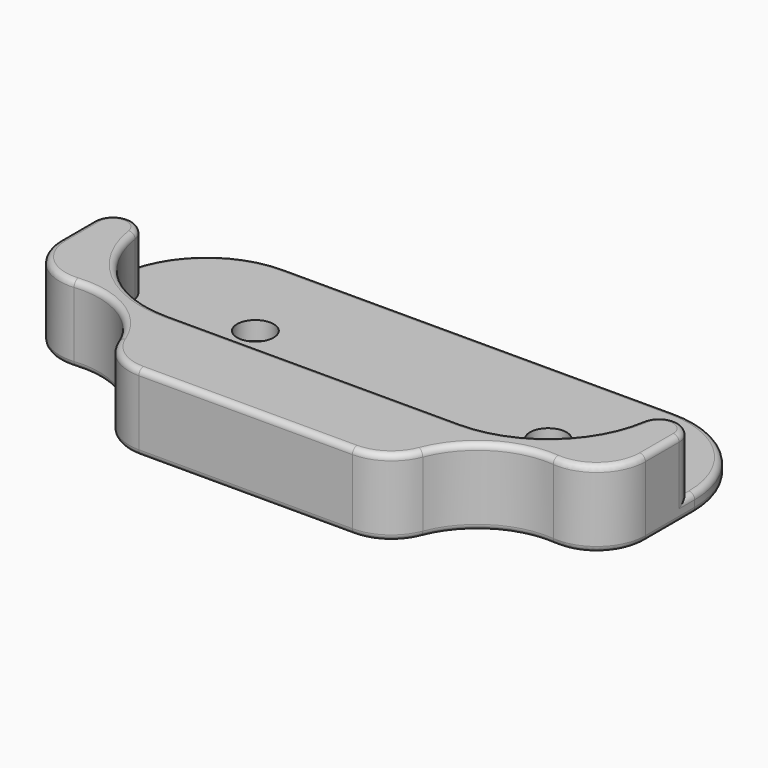
from build123d import *

# Parameters (mm, degrees)
F0_R     = 2.38125
F1_DEPTH = 2.3749
F3_DEPTH = 7.62
F4_R     = 11.1125
F5_DEPTH = 25.4
F6_R     = 6.35
F7_R     = 0.762


with BuildPart() as f1:
    # F0 (on Top) → F1 (new body)
    with BuildSketch(Plane.XY):
        with BuildLine():
            ThreePointArc((38.1, 6.35), (34.3802561211, 15.3302561211), (25.4, 19.05))
            Line((25.4, 19.05), (-25.4, 19.05))
            ThreePointArc((-25.4, 19.05), (-34.3802561211, 15.3302561211), (-38.1, 6.35))
            Line((-38.1, 6.35), (-38.1, -6.35))
            ThreePointArc((-38.1, -6.35), (-34.3802561211, -15.3302561211), (-25.4, -19.05))
            Line((-25.4, -19.05), (25.4, -19.05))
            ThreePointArc((25.4, -19.05), (34.3802561211, -15.3302561211), (38.1, -6.35))
            Line((38.1, -6.35), (38.1, 6.35))
        make_face()
        with Locations((-19.05, 6.35)):
            Circle(F0_R, mode=Mode.SUBTRACT)
        with Locations((19.05, 6.35)):
            Circle(F0_R, mode=Mode.SUBTRACT)
    extrude(amount=F1_DEPTH)

    # F2 (on face) → F3 (join)
    with BuildSketch(Plane.XY.offset(2.3749)):
        with BuildLine():
            ThreePointArc((-19.05, -7.747), (-28.2256648778, -4.3519896771), (-32.9817402005, 4.1977862595))
            ThreePointArc((-32.9817402005, 4.1977862595), (-33.8386907091, 5.7382864283), (-35.4919636601, 6.35))
            Line((-35.4919636601, 6.35), (-35.56, 6.35))
            ThreePointArc((-35.56, 6.35), (-37.3560512242, 5.6060512242), (-38.1, 3.81))
            Line((-38.1, 3.81), (-38.1, -6.35))
            ThreePointArc((-38.1, -6.35), (-34.3802561211, -15.3302561211), (-25.4, -19.05))
            Line((-25.4, -19.05), (25.4, -19.05))
            ThreePointArc((25.4, -19.05), (34.3802561211, -15.3302561211), (38.1, -6.35))
            Line((38.1, -6.35), (38.1, 3.81))
            ThreePointArc((38.1, 3.81), (37.3560512242, 5.6060512242), (35.56, 6.35))
            Line((35.56, 6.35), (35.4919636601, 6.35))
            ThreePointArc((35.4919636601, 6.35), (33.8386907091, 5.7382864283), (32.9817402005, 4.1977862595))
            ThreePointArc((32.9817402005, 4.1977862595), (28.2256648778, -4.3519896771), (19.05, -7.747))
            Line((19.05, -7.747), (-19.05, -7.747))
        make_face()
    extrude(amount=F3_DEPTH)

    # F4 (on Top) → F5 (cut)
    with BuildSketch(Plane.XY):
        with Locations((-30.1625, -19.05)):
            Circle(F4_R)
        with Locations((30.1625, -19.05)):
            Circle(F4_R)
    extrude(amount=F5_DEPTH, mode=Mode.SUBTRACT)

    # F6
    f6_edges = [f1.edges().sort_by_distance(p)[0] for p in [
        (-37.370496, -10.592314, 4.99745),
        (-19.05, -19.05, 4.99745),
        (19.05, -19.05, 4.99745),
        (37.370496, -10.592314, 4.99745),
    ]]
    fillet(f6_edges, radius=F6_R)

    # F7
    f7_edges = [f1.edges().sort_by_distance(p)[0] for p in [
        (38.1, 1.075096, 9.9949),
        (36.031169, -6.349595, 9.9949),
        (37.356051, 5.606051, 9.9949),
        (24.318213, -9.598441, 9.9949),
        (35.525982, 6.35, 9.9949),
        (17.477349, -17.94334, 9.9949),
        (33.838691, 5.738286, 9.9949),
        (0, -19.05, 9.9949),
        (28.225665, -4.35199, 9.9949),
        (-17.477349, -17.94334, 9.9949),
        (0, -7.747, 9.9949),
        (-24.318213, -9.598441, 9.9949),
        (-28.225665, -4.35199, 9.9949),
        (-36.031169, -6.349595, 9.9949),
        (-33.838691, 5.738286, 9.9949),
        (-38.1, 1.075096, 9.9949),
        (-35.525982, 6.35, 9.9949),
        (-37.356051, 5.606051, 9.9949),
        (0, 19.05, 2.3749),
        (-34.380256, 15.330256, 2.3749),
        (-38.1, 2.345096, 0),
    ]]
    fillet(f7_edges, radius=F7_R)


solid = f1.part
